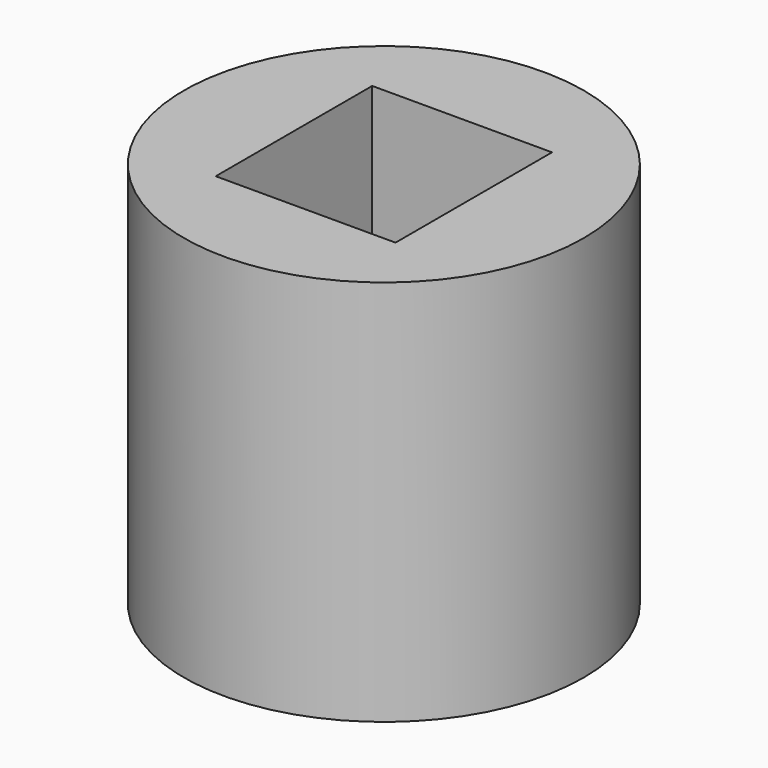
from build123d import *

# Parameters (mm, degrees)
F0_R     = 31.5235304599
F1_DEPTH = 25
F3_DEPTH = 61
F4_W     = 28.34899351
F4_H     = 30.839510262
F5_DEPTH = 75


with BuildPart() as f1:
    # F0 (on Top) → F1 (new body)
    with BuildSketch(Plane.XY):
        Circle(F0_R)
    extrude(amount=F1_DEPTH)


with BuildPart() as f3:
    # F0 (on Top) → F3 (new body)
    with BuildSketch(Plane.XY):
        Circle(F0_R)
    extrude(amount=F3_DEPTH)

    # F4 (on face) → F5 (cut)
    with BuildSketch(Plane.XY.offset(61)):
        Rectangle(F4_W, F4_H)
    extrude(amount=-F5_DEPTH, mode=Mode.SUBTRACT)


solid = f3.part
